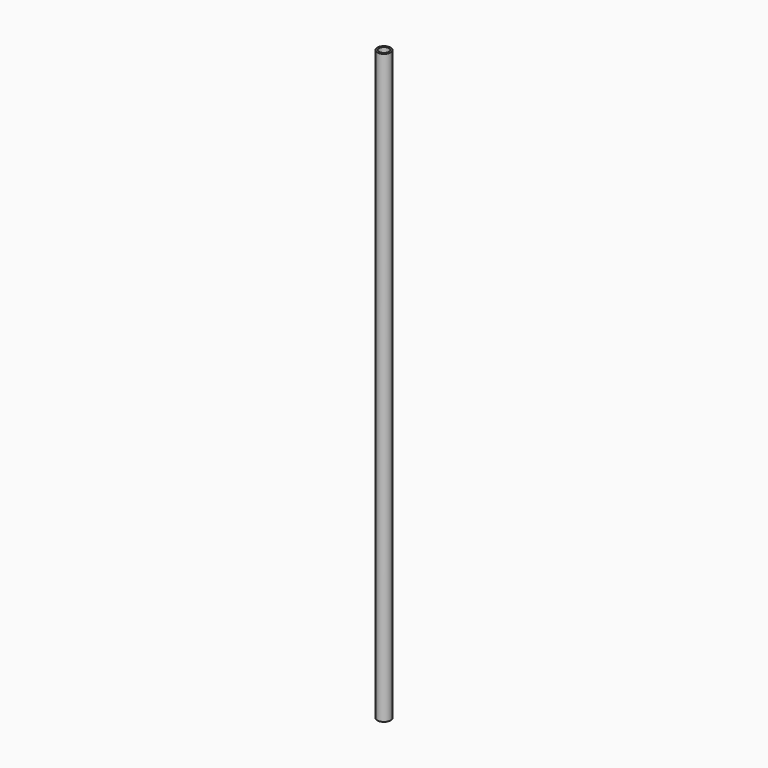
from build123d import *

# Parameters (mm, degrees)
F1_R     = 10.668
F1_R_2   = 7.874
F2_DEPTH = 939.8


with BuildPart() as f2:
    # F1 (on face) → F2 (new body)
    with BuildSketch(Plane.XY):
        with Locations((72.060592, 47.027521)):
            Circle(F1_R)
        with Locations((72.060592, 47.027521)):
            Circle(F1_R_2, mode=Mode.SUBTRACT)
    extrude(amount=-F2_DEPTH)


solid = f2.part
